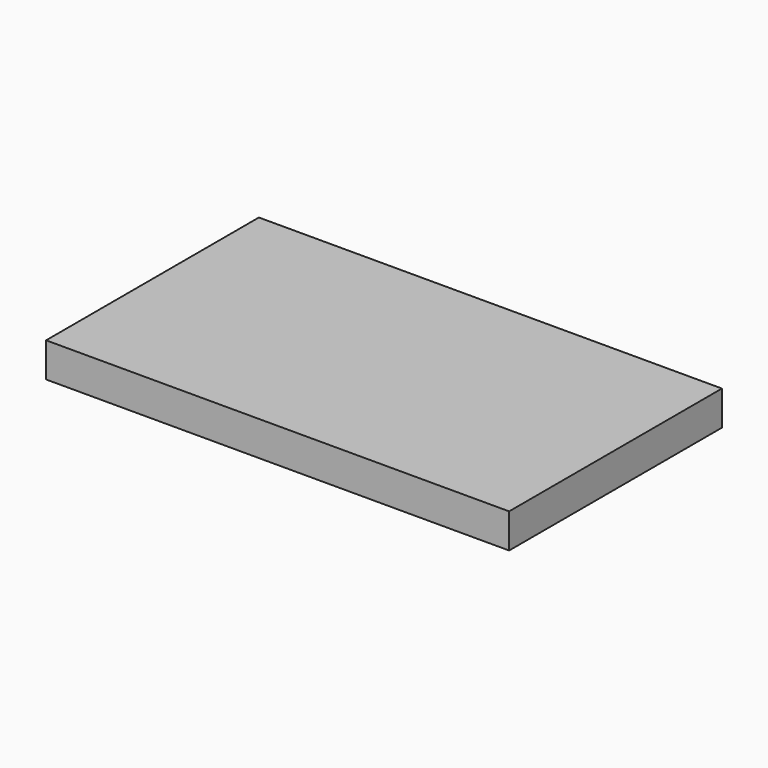
from build123d import *

# Parameters (mm, degrees)
F1_W     = 94
F1_H     = 54
F2_DEPTH = 7
F3_W     = 52
F3_H     = 5
F4_DEPTH = 93


with BuildPart() as f2:
    # F1 (on Top) → F2 (new body)
    with BuildSketch(Plane.XY):
        Rectangle(F1_W, F1_H)
    extrude(amount=F2_DEPTH)

    # F3 (on face) → F4 (cut, through all)
    with BuildSketch(Plane(origin=(-47, 0, 0), x_dir=(0, -1, 0), z_dir=(-1, 0, 0))):
        with Locations((0, 3.5)):
            Rectangle(F3_W, F3_H)
    extrude(amount=-F4_DEPTH, mode=Mode.SUBTRACT)


solid = f2.part
